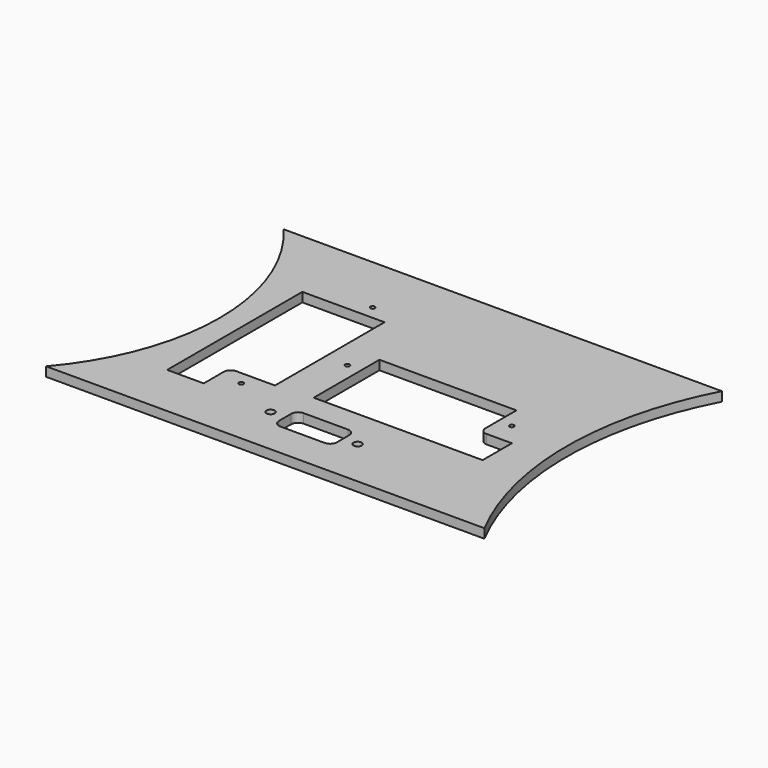
from build123d import *

# Parameters (mm, degrees)
F0_R     = 0.5
F0_R_2   = 0.889
F1_DEPTH = 2.032


with BuildPart() as f1:
    # F0 (on Top) → F1 (new body)
    with BuildSketch(Plane.XY):
        with BuildLine():
            Line((56, 32.5), (-28, 32.5))
            Line((-28, 32.5), (-40, 32.5))
            ThreePointArc((-40, 32.5), (-28, 0), (-40, -32.5))
            Line((-40, -32.5), (56, -32.5))
            ThreePointArc((56, -32.5), (48, 0), (56, 32.5))
        make_face()
        with Locations((-10, -16.6)):
            Circle(F0_R, mode=Mode.SUBTRACT)
        with Locations((0.54, -21.715)):
            Circle(F0_R_2, mode=Mode.SUBTRACT)
        with BuildLine():
            Line((-23, 16.4), (-15, 16.4))
            Line((-15, 16.4), (-5, 16.4))
            Line((-5, 16.4), (-5, 1.4))
            Line((-5, 1.4), (-5, -13.6))
            Line((-5, -13.6), (-13.5, -13.6))
            ThreePointArc((-13.5, -13.6), (-14.56066, -14.03934), (-15, -15.1))
            Line((-15, -15.1), (-15, -20.6))
            Line((-15, -20.6), (-23, -20.6))
            Line((-23, -20.6), (-23, 1.4))
            Line((-23, 1.4), (-23, 16.4))
        make_face(mode=Mode.SUBTRACT)
        with BuildLine():
            Line((5.215, -18.54), (14.915, -18.54))
            ThreePointArc((14.915, -18.54), (15.97566, -18.97934), (16.415, -20.04))
            Line((16.415, -20.04), (16.415, -23.39))
            ThreePointArc((16.415, -23.39), (15.97566, -24.45066), (14.915, -24.89))
            Line((14.915, -24.89), (5.215, -24.89))
            ThreePointArc((5.215, -24.89), (4.15434, -24.45066), (3.715, -23.39))
            Line((3.715, -23.39), (3.715, -20.04))
            ThreePointArc((3.715, -20.04), (4.15434, -18.97934), (5.215, -18.54))
        make_face(mode=Mode.SUBTRACT)
        with Locations((19.59, -21.715)):
            Circle(F0_R_2, mode=Mode.SUBTRACT)
        with BuildLine():
            Line((3, -13), (3, -5))
            Line((3, -5), (3, 5))
            Line((3, 5), (18, 5))
            Line((18, 5), (33, 5))
            Line((33, 5), (33, -3.5))
            ThreePointArc((33, -3.5), (33.43934, -4.56066), (34.5, -5))
            Line((34.5, -5), (40, -5))
            Line((40, -5), (40, -13))
            Line((40, -13), (18, -13))
            Line((18, -13), (3, -13))
        make_face(mode=Mode.SUBTRACT)
        Circle(F0_R, mode=Mode.SUBTRACT)
        with Locations((-10, 19.4)):
            Circle(F0_R, mode=Mode.SUBTRACT)
        with Locations((36, 0)):
            Circle(F0_R, mode=Mode.SUBTRACT)
    extrude(amount=F1_DEPTH)


solid = f1.part
